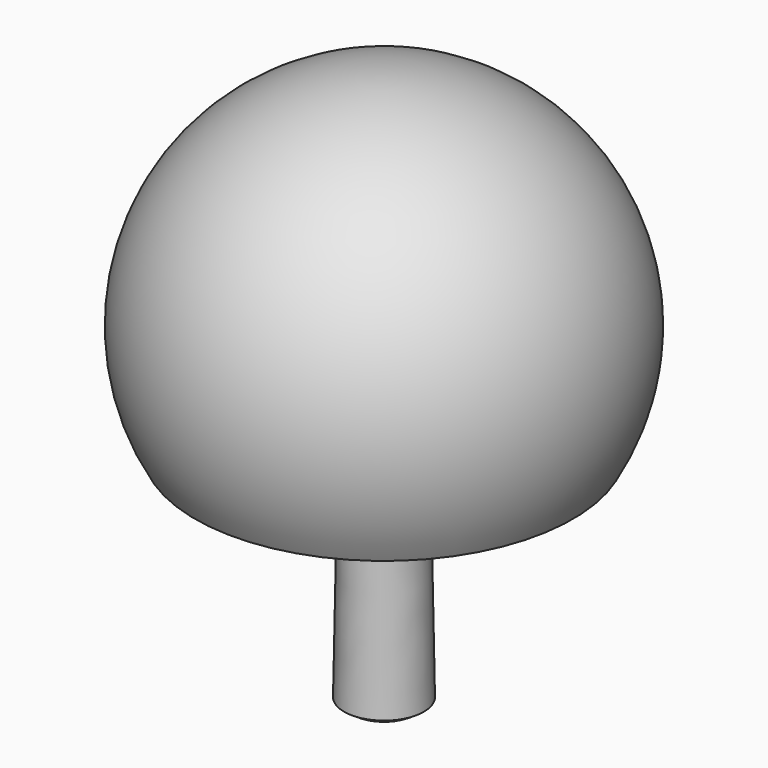
from build123d import *

# Parameters (mm, degrees)
F1_FACE_R = 2.6449726818
F2_DEPTH  = 16
F2_TAPER  = -1
F5_R      = 1
F6_DEPTH  = 3
F7_R      = 1
F8_DEPTH  = 3


with BuildPart() as f1:
    # F0 (on Front) → F1 (revolve)
    with BuildSketch(Plane.XZ):
        with BuildLine():
            Line((0, 22.8), (0, 24))
            ThreePointArc((0, 24), (-13.8564064606, 16), (-13.8564064606, 0))
            Line((-13.8564064606, 0), (-12.451505933, 0))
            ThreePointArc((-12.451505933, 0), (-14.0433405231, 12.6716792433), (-5.1779775058, 21.8646510576))
            ThreePointArc((-5.1779775058, 21.8646510576), (-3.7335474185, 22.3213345633), (-2.25, 22.6279697839))
            ThreePointArc((-2.25, 22.6279697839), (-1.1282834745, 22.7569297756), (0, 22.8))
        make_face()
        with BuildLine():
            Line((0, 0), (0, 22.8))
            ThreePointArc((0, 22.8), (-1.1282834745, 22.7569297756), (-2.25, 22.6279697839))
            Line((-2.25, 22.6279697839), (-2.3133264481, 19))
            Line((-2.3133264481, 19), (-2.6449726818, 0))
            Line((-2.6449726818, 0), (0, 0))
        make_face()
        with BuildLine():
            Line((-2.3133264481, 19), (-2.25, 22.6279697839))
            ThreePointArc((-2.25, 22.6279697839), (-3.7335474185, 22.3213345633), (-5.1779775058, 21.8646510576))
            Line((-5.1779775058, 21.8646510576), (-2.3133264481, 19))
        make_face()
    revolve(axis=Axis((0, 0, 23.4), (0, 0, 1)))

    # F7 (on face) → F8 (cut)
    with BuildSketch(Plane(origin=(0, 0, 0), x_dir=(1, 0, 0), z_dir=(0, 0, -1))):
        Circle(F7_R)
    extrude(amount=-F8_DEPTH, mode=Mode.SUBTRACT)


with BuildPart() as f2:
    # F1_face (on face) → F2 (new body)
    with BuildSketch(Plane(origin=(0, 0, 0), x_dir=(1, 0, 0), z_dir=(0, 0, -1))):
        Circle(F1_FACE_R)
    extrude(amount=F2_DEPTH, taper=F2_TAPER)

    # F3 (on Front) → F4 (revolve)
    with BuildSketch(Plane.XZ):
        with BuildLine():
            ThreePointArc((0, -17), (1.5452556279, -16.743089608), (2.9242537206, -16))
            Line((2.9242537206, -16), (0, -16))
            Line((0, -16), (0, -17))
        make_face()
    revolve(axis=Axis((0, 0, -16.5), (0, 0, -1)))

    # F5 (on face) → F6 (cut)
    with BuildSketch(Plane.XY):
        Circle(F5_R)
    extrude(amount=-F6_DEPTH, mode=Mode.SUBTRACT)


solid = Compound([f1.part, f2.part])
